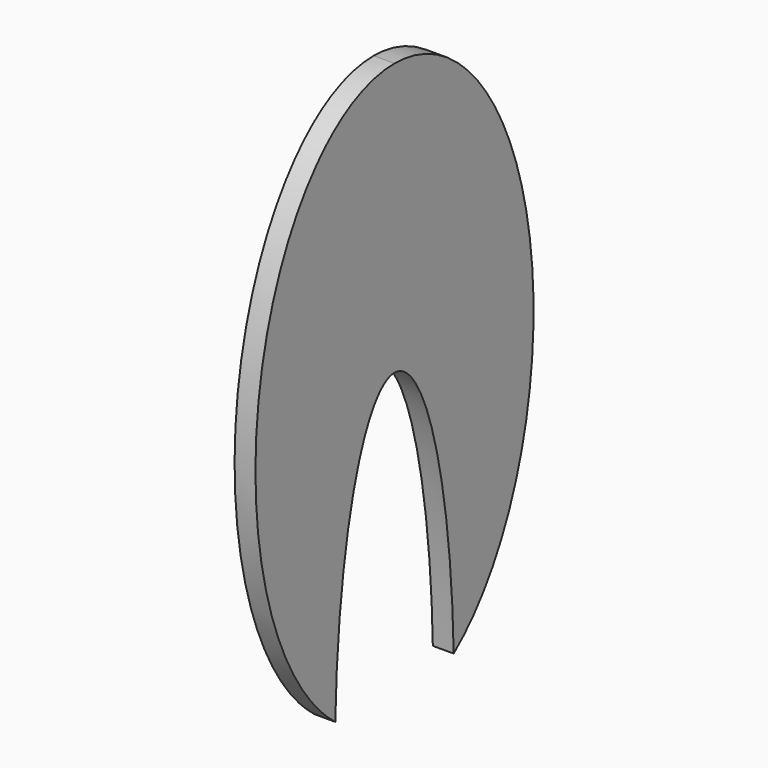
from build123d import *

# Parameters (mm, degrees)
F1_DEPTH = 7.62
F3_DEPTH = 25.4


with BuildPart() as f1:
    # F0 (on Right) → F1 (new body)
    with BuildSketch(Plane.YZ):
        with BuildLine():
            add(Edge.make_bspline(
                [(0, 105.41), (-109.985226, 105.41), (-54.992613, -52.705), (0, -210.82), (54.992613, -52.705), (109.985226, 105.41), (0, 105.41)],
                knots=[0, 0, 0, 2.094395, 2.094395, 4.18879, 4.18879, 6.283185, 6.283185, 6.283185], degree=2, weights=[1, 0.5, 1, 0.5, 1, 0.5, 1]))
        make_face()
    extrude(amount=F1_DEPTH)

    # F2 (on face) → F3 (cut)
    with BuildSketch(Plane.YZ.offset(7.62)):
        with BuildLine():
            add(Edge.make_bspline(
                [(0, 5.929171), (-47.007404, 5.929171), (-23.503702, -161.079586), (0, -328.088342), (23.503702, -161.079586), (47.007404, 5.929171), (0, 5.929171)],
                knots=[0, 0, 0, 2.094395, 2.094395, 4.18879, 4.18879, 6.283185, 6.283185, 6.283185], degree=2, weights=[1, 0.5, 1, 0.5, 1, 0.5, 1]))
        make_face()
    extrude(amount=-F3_DEPTH, mode=Mode.SUBTRACT)


solid = f1.part
